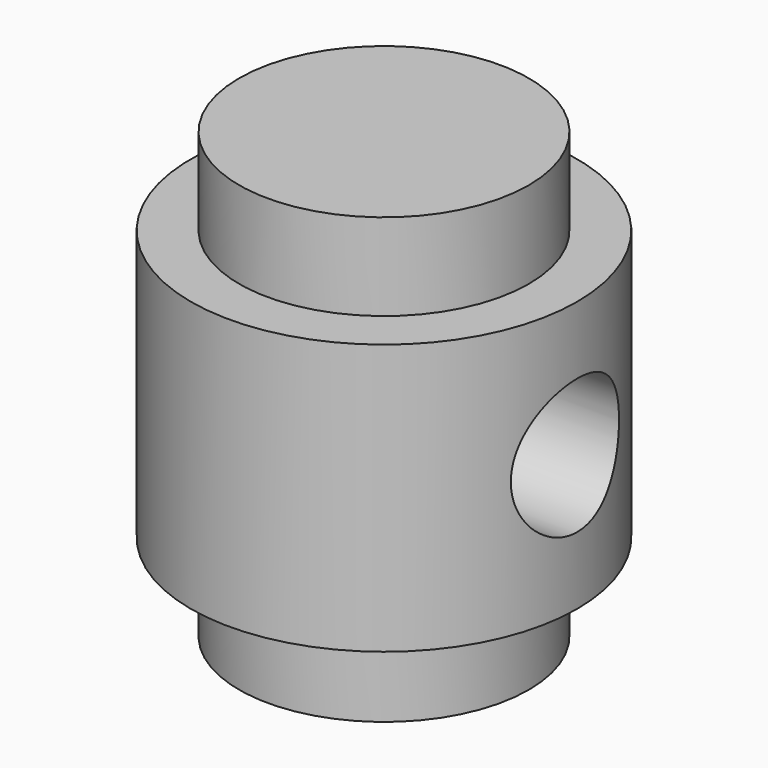
from build123d import *

# Parameters (mm, degrees)
F0_R          = 15
F1_DEPTH      = 18
F2_R          = 15
F3_DEPTH      = 5
F4_R          = 15
F5_DEPTH      = 5
F7_R          = 20
F8_DEPTH      = 14
F8_DEPTH_BACK = 14
F6_R          = 7
F9_DEPTH      = 20.001
F9_DEPTH_BACK = 20.001


with BuildPart() as f1:
    # F0 (on Top) → F1 (new body, symmetric)
    with BuildSketch(Plane.XY):
        Circle(F0_R)
    extrude(amount=F1_DEPTH, both=True)

    # F2 (on face) → F3 (join)
    with BuildSketch(Plane.XY.offset(18)):
        Circle(F2_R)
    extrude(amount=F3_DEPTH)

    # F4 (on face) → F5 (join)
    with BuildSketch(Plane(origin=(0, 0, -18), x_dir=(1, 0, 0), z_dir=(0, 0, -1))):
        Circle(F4_R)
    extrude(amount=F5_DEPTH)

    # F7 (on Top) → F8 (join, two sides)
    with BuildSketch(Plane.XY) as f8_sk:
        Circle(F7_R)
    extrude(amount=F8_DEPTH)
    extrude(f8_sk.sketch, amount=-F8_DEPTH_BACK)

    # F6 (on Right) → F9 (cut, two sides)
    with BuildSketch(Plane.YZ) as f9_sk:
        Circle(F6_R)
    extrude(amount=-F9_DEPTH, mode=Mode.SUBTRACT)
    extrude(f9_sk.sketch, amount=F9_DEPTH_BACK, mode=Mode.SUBTRACT)


solid = f1.part
